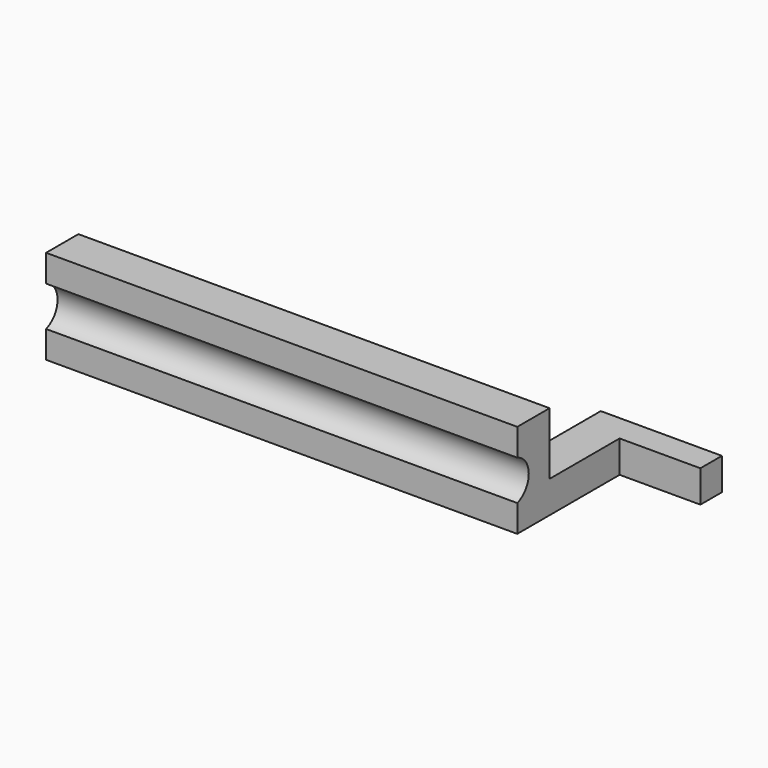
from build123d import *

# Parameters (mm, degrees)
F0_W     = 88.9
F0_H     = 17.78
F1_DEPTH = 7.62
F2_R     = 3.9751
F3_DEPTH = 88.901
F4_W     = 7.62
F4_H     = 6.0452
F5_DEPTH = 21.59
F6_W     = 5.08
F6_H     = 6.0452
F7_DEPTH = 15.24


with BuildPart() as f1:
    # F0 (on Front) → F1 (new body)
    with BuildSketch(Plane.XZ):
        with Locations((-44.45, 8.89)):
            Rectangle(F0_W, F0_H)
    extrude(amount=F1_DEPTH)

    # F2 (on face) → F3 (cut, through all)
    with BuildSketch(Plane(origin=(-88.9, 0, 0), x_dir=(0, -1, 0), z_dir=(-1, 0, 0))):
        with Locations((8.89, 8.89)):
            Circle(F2_R)
    extrude(amount=-F3_DEPTH, mode=Mode.SUBTRACT)

    # F4 (on face) → F5 (join)
    with BuildSketch(Plane(origin=(0, 0, 0), x_dir=(-1, 0, 0), z_dir=(0, 1, 0))):
        with Locations((3.81, 3.0226)):
            Rectangle(F4_W, F4_H)
    extrude(amount=F5_DEPTH)

    # F6 (on face) → F7 (join)
    with BuildSketch(Plane.YZ):
        with Locations((19.05, 3.0226)):
            Rectangle(F6_W, F6_H)
    extrude(amount=F7_DEPTH)


solid = f1.part
